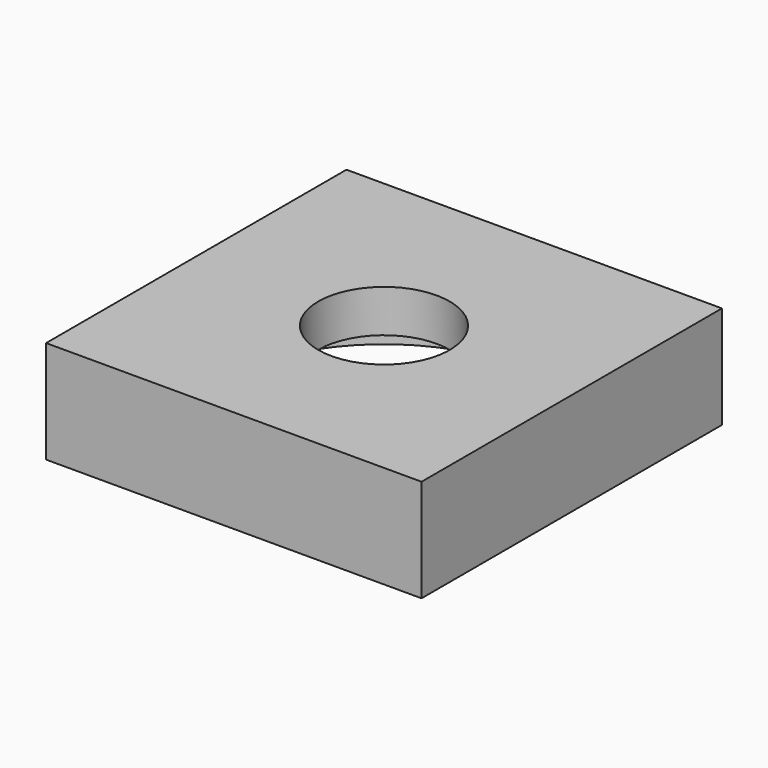
from build123d import *

# Parameters (mm, degrees)
F0_W     = 15
F0_H     = 15
F0_R     = 6.625
F1_DEPTH = 2.4
F2_W     = 15
F2_H     = 15
F3_DEPTH = 1.7
F4_D     = 5.25


with BuildPart() as f1:
    # F0 (on Top) → F1 (new body)
    with BuildSketch(Plane.XY):
        Rectangle(F0_W, F0_H)
        Circle(F0_R, mode=Mode.SUBTRACT)
    extrude(amount=F1_DEPTH)

    # F2 (on face) → F3 (join)
    with BuildSketch(Plane.XY.offset(2.4)):
        Rectangle(F2_W, F2_H)
    extrude(amount=F3_DEPTH)

    # F4 (through all)
    with Locations(Plane(origin=(0, 0, 0), x_dir=(1, 0, 0), z_dir=(0, 0, -1))):
        with Locations((0, 0)):
            Hole(F4_D / 2)


solid = f1.part
